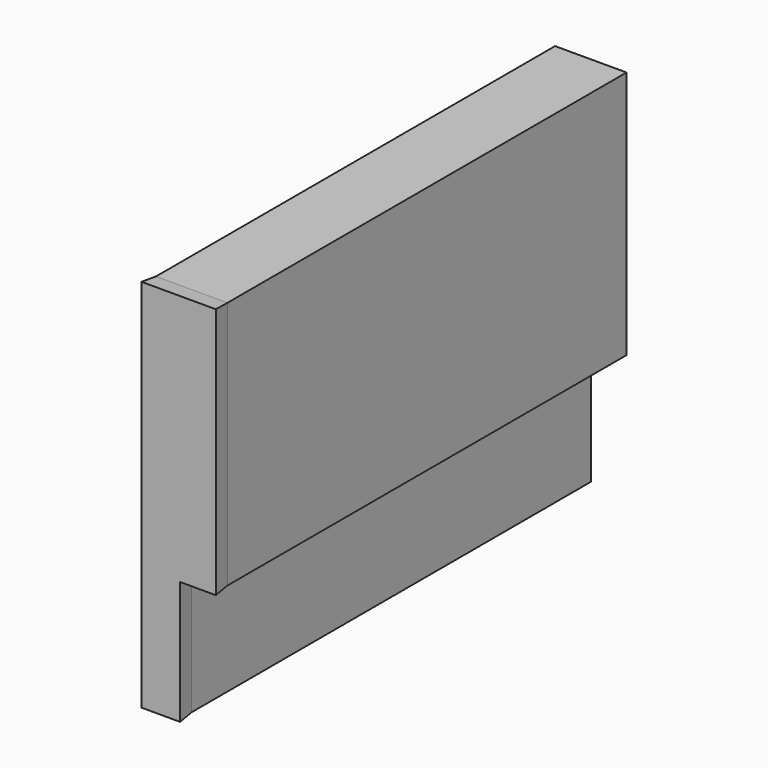
from build123d import *

# Parameters (mm, degrees)
F1_DEPTH      = 3416.3
F1_DEPTH_BACK = 111.76
F1_TAPER_BACK = -5


with BuildPart() as f1:
    # F0 (on Front) → F1 (new body, two sides)
    with BuildSketch(Plane.XZ) as f1_sk:
        Polygon((244.7146998, 1274.0445944), (-244.7146744, 1274.0445944), (-244.7146744, -1274.0446198), (-0.0151384, -1274.0446198), (-0.0151384, -430.3626394), (244.7146998, -430.3626394), align=None)
    extrude(amount=-F1_DEPTH)
    extrude(f1_sk.sketch, amount=F1_DEPTH_BACK, taper=F1_TAPER_BACK)


solid = f1.part
